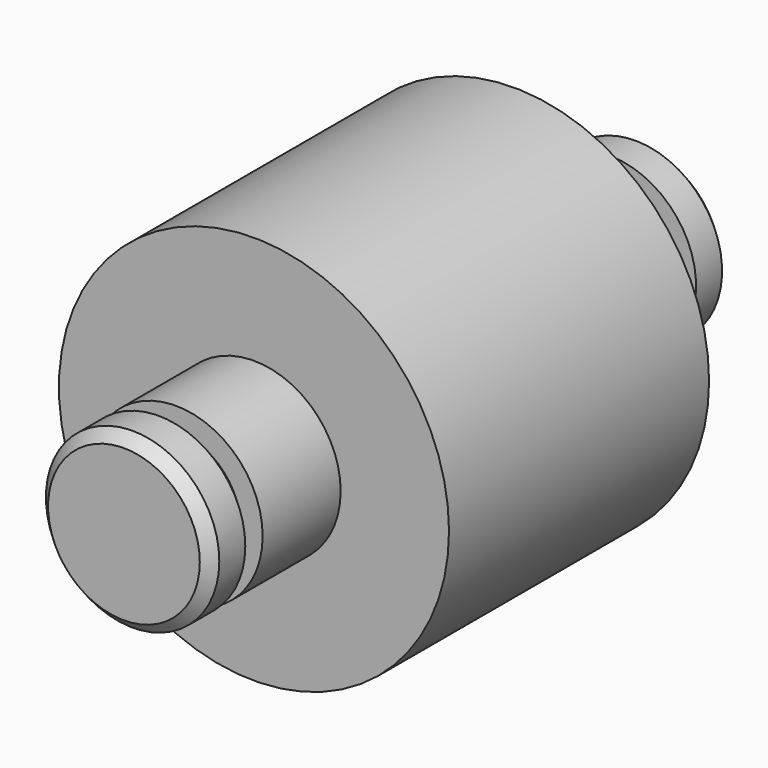
from build123d import *

# Parameters (mm, degrees)
F0_R      = 228.6
F1_DEPTH  = 381
F2_R      = 101.6
F3_DEPTH  = 114.3
F4_R      = 101.6
F3_FACE_R = 101.6
F5_DEPTH  = 114.3
F6_R      = 76.2
F7_DEPTH  = 25.4
F8_R      = 101.6
F9_DEPTH  = 50.8
F10_R     = 76.2
F11_DEPTH = 25.4
F12_R     = 101.6
F13_DEPTH = 50.8
F14_SIZE2 = 12.7
F14_SIZE  = 12.7


with BuildPart() as f1:
    # F0 (on Front) → F1 (new body)
    with BuildSketch(Plane.XZ):
        Circle(F0_R)
    extrude(amount=F1_DEPTH)

    # F2 (on face) → F3 (join)
    with BuildSketch(Plane.XZ.offset(381)):
        Circle(F2_R)
    extrude(amount=F3_DEPTH)

    # F4 (on face) + F3_face (on face) → F5 (join)
    with BuildSketch(Plane(origin=(0, 0, 0), x_dir=(-1, 0, 0), z_dir=(0, 1, 0))):
        Circle(F4_R)
    with BuildSketch(Plane.XZ.offset(495.3)):
        Circle(F3_FACE_R)
    extrude(amount=F5_DEPTH, dir=(0, 1, 0))

    # F6 (on face) → F7 (join)
    with BuildSketch(Plane(origin=(0, 114.3, 0), x_dir=(-1, 0, 0), z_dir=(0, 1, 0))):
        Circle(F6_R)
    extrude(amount=F7_DEPTH)

    # F8 (on face) → F9 (join)
    with BuildSketch(Plane(origin=(0, 139.7, 0), x_dir=(-1, 0, 0), z_dir=(0, 1, 0))):
        Circle(F8_R)
    extrude(amount=F9_DEPTH)

    # F10 (on face) → F11 (join)
    with BuildSketch(Plane.XZ.offset(495.3)):
        Circle(F10_R)
    extrude(amount=F11_DEPTH)

    # F12 (on face) → F13 (join)
    with BuildSketch(Plane.XZ.offset(520.7)):
        Circle(F12_R)
    extrude(amount=F13_DEPTH)

    # F14
    f14_edges = [f1.edges().sort_by_distance(p)[0] for p in [
        (101.6, 190.5, 0),
        (-101.6, -571.5, 0),
    ]]
    chamfer(f14_edges, length=F14_SIZE, length2=F14_SIZE2)


solid = f1.part
